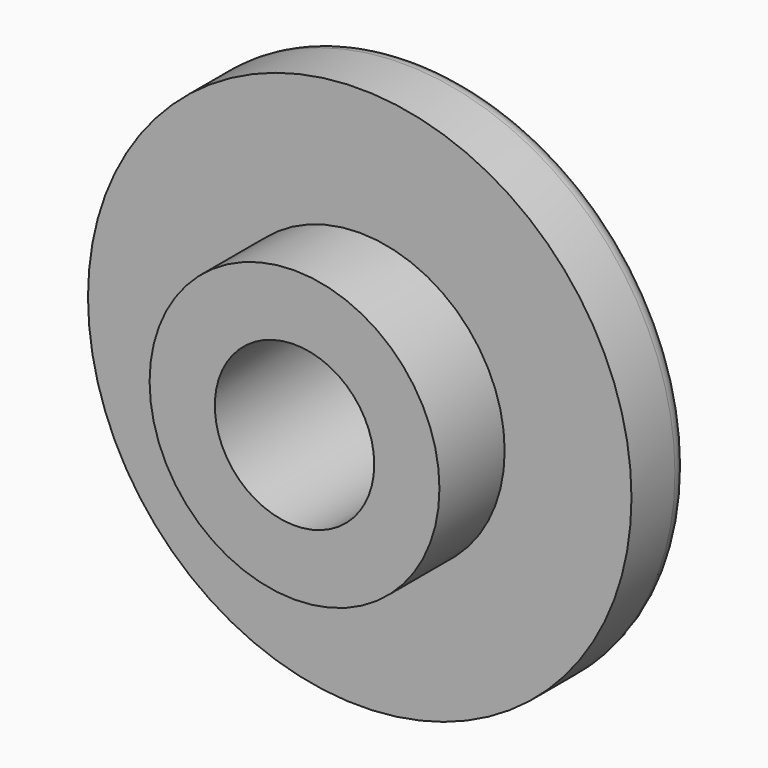
from build123d import *

# Parameters (mm, degrees)
F0_R     = 7.5
F1_DEPTH = 2
F2_R     = 4
F3_DEPTH = 2.25
F4_R     = 2.2
F5_DEPTH = 4.251
F6_R     = 0.5


with BuildPart() as f1:
    # F0 (on Front) → F1 (new body)
    with BuildSketch(Plane.XZ):
        Circle(F0_R)
    extrude(amount=F1_DEPTH)

    # F2 (on face) → F3 (join)
    with BuildSketch(Plane.XZ.offset(2)):
        Circle(F2_R)
    extrude(amount=F3_DEPTH)

    # F4 (on face) → F5 (cut, through all)
    with BuildSketch(Plane.XZ.offset(4.25)):
        Circle(F4_R)
    extrude(amount=-F5_DEPTH, mode=Mode.SUBTRACT)

    # F6
    f6_edges = [f1.edges().sort_by_distance(p)[0] for p in [
        (-7.5, 0, 0),
    ]]
    fillet(f6_edges, radius=F6_R)


solid = f1.part
